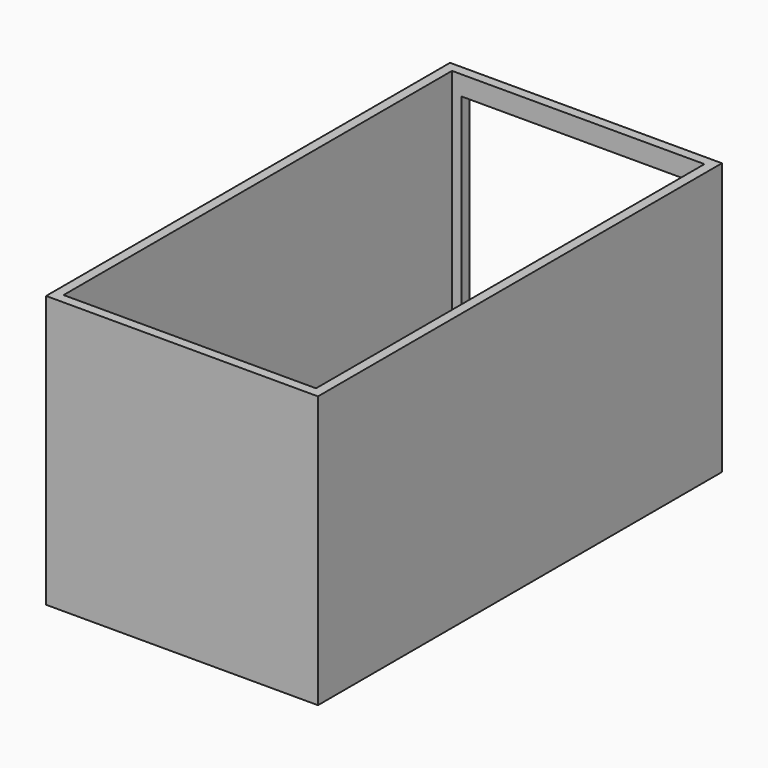
from build123d import *

# Parameters (mm, degrees)
F0_W     = 70
F0_H     = 70
F1_DEPTH = 130
F2_T     = -2.5
F3_W     = 60
F3_H     = 60
F4_DEPTH = 25
F5_W     = 10
F5_H     = 10
F6_DEPTH = 25


with BuildPart() as f1:
    # F0 (on Front) → F1 (new body)
    with BuildSketch(Plane.XZ):
        with Locations((-6.760671, 9.284316)):
            Rectangle(F0_W, F0_H)
    extrude(amount=F1_DEPTH)

    # F2
    f2_openings = [f1.faces().sort_by_distance(p)[0] for p in [
        (-6.760671, -65, 44.284316),
    ]]
    offset(amount=F2_T, openings=f2_openings)

    # F3 (on Front) → F4 (cut)
    with BuildSketch(Plane.XZ):
        with Locations((-6.760671, 9.284316)):
            Rectangle(F3_W, F3_H)
    extrude(amount=F4_DEPTH, mode=Mode.SUBTRACT)

    # F5 (on face) → F6 (cut)
    with BuildSketch(Plane.XY.offset(-23.215684)):
        with Locations((-6.760671, -77.5)):
            Rectangle(F5_W, F5_H)
    extrude(amount=-F6_DEPTH, mode=Mode.SUBTRACT)


solid = f1.part
